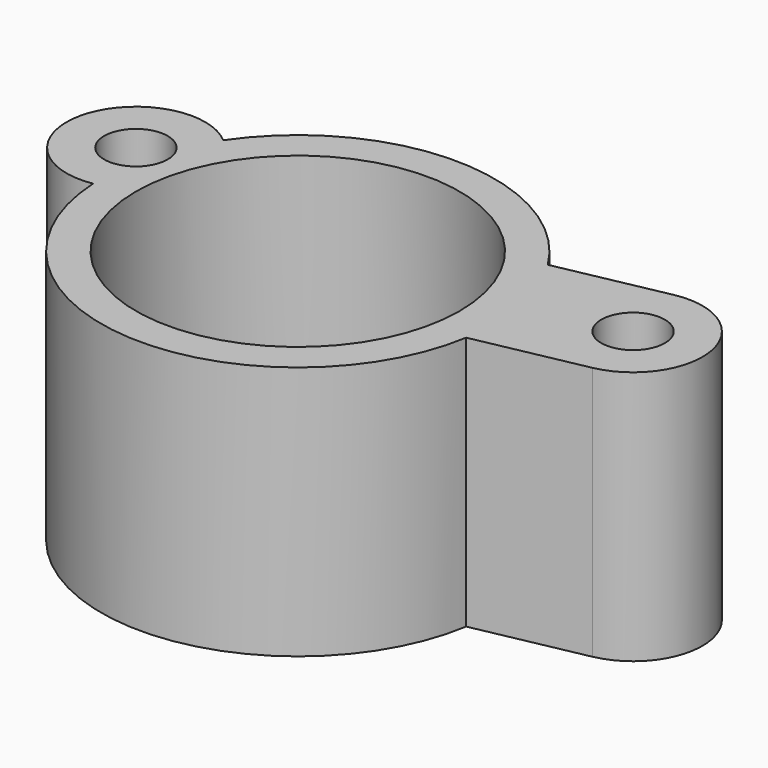
from build123d import *

# Parameters (mm, degrees)
SKETCH_R        = 14
SKETCH_R_2      = 2.75
PAD_DEPTH       = 17
SKETCH001_R     = 9
SKETCH001_R_2   = 2.75
PAD001_DEPTH    = 3
SKETCH002_R     = 3
SKETCH002_R_2   = 2.75
PAD002_DEPTH    = 2
CHAMFER_SIZE    = 0.5
CHAMFER001_SIZE = 1
SKETCH003_W     = 15
SKETCH003_H     = 5
POCKET_DEPTH    = 22.001
FILLET_R        = 1
PAD003_DEPTH    = 10


with BuildPart() as part:
    # Sketch → Pad (new body)
    with BuildSketch(Plane.XY):
        with BuildLine():
            ThreePointArc((-14.073185, 9.536533), (-23.781107, 6.605863), (-16.975525, -0.911891))
            ThreePointArc((-16.975525, -0.911891), (-0.931565, -16.974457), (16.773787, -2.764066))
            Line((16.773787, -2.764066), (26.176697, -0.883484))
            ThreePointArc((26.176697, -0.883484), (30.883484, 6.176697), (23.823303, 10.883484))
            Line((23.823303, 10.883484), (14.420394, 9.002902))
            ThreePointArc((14.420394, 9.002902), (0.318322, 16.997019), (-14.073185, 9.536533))
        make_face()
        Circle(SKETCH_R, mode=Mode.SUBTRACT)
        with Locations((25, 5)):
            Circle(SKETCH_R_2, mode=Mode.SUBTRACT)
        with Locations((-18, 5)):
            Circle(SKETCH_R_2, mode=Mode.SUBTRACT)
    extrude(amount=-PAD_DEPTH)

    # Sketch001 → Pad001 (join)
    with BuildSketch(Plane.XY.offset(-17)):
        with BuildLine():
            ThreePointArc((-14.073185, 9.536533), (-23.781107, 6.605863), (-16.975525, -0.911891))
            ThreePointArc((-16.975525, -0.911891), (-0.931565, -16.974457), (16.773787, -2.764066))
            Line((16.773787, -2.764066), (26.176697, -0.883484))
            ThreePointArc((26.176697, -0.883484), (30.883484, 6.176697), (23.823303, 10.883484))
            Line((23.823303, 10.883484), (14.420394, 9.002902))
            ThreePointArc((14.420394, 9.002902), (0.318322, 16.997019), (-14.073185, 9.536533))
        make_face()
        Circle(SKETCH001_R, mode=Mode.SUBTRACT)
        with Locations((25, 5)):
            Circle(SKETCH001_R_2, mode=Mode.SUBTRACT)
        with Locations((-18, 5)):
            Circle(SKETCH001_R_2, mode=Mode.SUBTRACT)
    extrude(amount=-PAD001_DEPTH)

    # Sketch002 → Pad002 (join)
    with BuildSketch(Plane.XY.offset(-20)):
        with BuildLine():
            ThreePointArc((-14.073185, 9.536533), (-23.781107, 6.605863), (-16.975525, -0.911891))
            ThreePointArc((-16.975525, -0.911891), (-0.931565, -16.974457), (16.773787, -2.764066))
            Line((16.773787, -2.764066), (26.176697, -0.883484))
            ThreePointArc((26.176697, -0.883484), (30.883484, 6.176697), (23.823303, 10.883484))
            Line((23.823303, 10.883484), (14.420394, 9.002902))
            ThreePointArc((14.420394, 9.002902), (0.318322, 16.997019), (-14.073185, 9.536533))
        make_face()
        Circle(SKETCH002_R, mode=Mode.SUBTRACT)
        with Locations((25, 5)):
            Circle(SKETCH002_R_2, mode=Mode.SUBTRACT)
        with Locations((-18, 5)):
            Circle(SKETCH002_R_2, mode=Mode.SUBTRACT)
    extrude(amount=-PAD002_DEPTH)

    # Chamfer
    chamfer_edges = [part.edges().sort_by_distance(p)[0] for p in [
        (-9, 0, -17),
    ]]
    chamfer(chamfer_edges, length=CHAMFER_SIZE)

    # Chamfer001
    chamfer001_edges = [part.edges().sort_by_distance(p)[0] for p in [
        (-3, 0, -20),
    ]]
    chamfer(chamfer001_edges, length=CHAMFER001_SIZE)

    # Sketch003 (on Face6 of Chamfer001) → Pocket (cut, through all)
    with BuildSketch(Plane(origin=(0, 0, -22), x_dir=(1, 0, 0), z_dir=(0, 0, -1))):
        Rectangle(SKETCH003_W, SKETCH003_H)
    extrude(amount=-POCKET_DEPTH, mode=Mode.SUBTRACT)

    # Fillet
    fillet_edges = [part.edges().sort_by_distance(p)[0] for p in [
        (-7.5, -2.5, -21),
        (7.5, -2.5, -21),
        (7.5, 2.5, -21),
        (-7.5, 2.5, -21),
    ]]
    fillet(fillet_edges, radius=FILLET_R)

    # Sketch004 (on Face15 of Fillet) → Pad003 (join)
    with BuildSketch(Plane(origin=(0, 0, -22), x_dir=(1, 0, 0), z_dir=(0, 0, -1))):
        with BuildLine():
            ThreePointArc((-17.738007, -13.175152), (-19.042066, -14.479211), (-17.738007, -15.78327))
            Line((-17.738007, -15.78327), (-5.033958, -15.78327))
            ThreePointArc((-5.033958, -15.78327), (-3.729899, -14.479211), (-5.033958, -13.175152))
            Line((-17.738007, -13.175152), (-5.033958, -13.175152))
        make_face()
    extrude(amount=-PAD003_DEPTH)


solid = part.part
